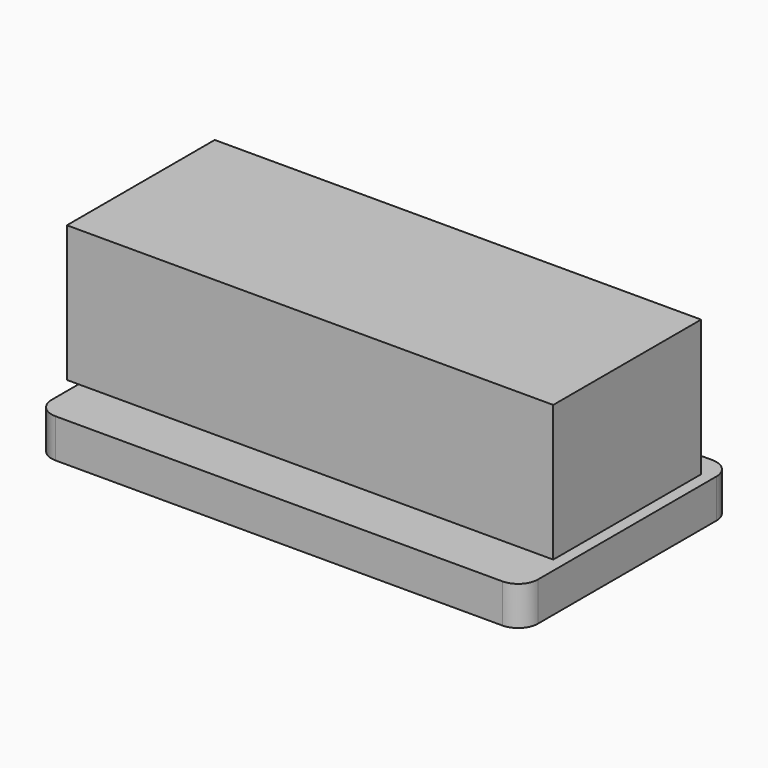
from build123d import *

# Parameters (mm, degrees)
F1_DEPTH = 4
F2_W     = 50
F2_H     = 19
F3_DEPTH = 14


with BuildPart() as f1:
    # F0 (on Top) → F1 (new body)
    with BuildSketch(Plane.XY):
        with BuildLine():
            ThreePointArc((25, 11.468), (24.404841, 12.904841), (22.968, 13.5))
            Line((22.968, 13.5), (-22.968, 13.5))
            ThreePointArc((-22.968, 13.5), (-24.404841, 12.904841), (-25, 11.468))
            Line((-25, 11.468), (-25, -11.468))
            ThreePointArc((-25, -11.468), (-24.404841, -12.904841), (-22.968, -13.5))
            Line((-22.968, -13.5), (22.968, -13.5))
            ThreePointArc((22.968, -13.5), (24.404841, -12.904841), (25, -11.468))
            Line((25, -11.468), (25, 11.468))
        make_face()
    extrude(amount=F1_DEPTH)


with BuildPart() as f3:
    # F2 (on face) → F3 (new body)
    with BuildSketch(Plane.XY.offset(4)):
        Rectangle(F2_W, F2_H)
    extrude(amount=F3_DEPTH)


with BuildPart() as f3_1:
    # F4: moved
    add(f3.part.moved(Location((0, 0, 1))))


solid = Compound([f1.part, f3_1.part])
